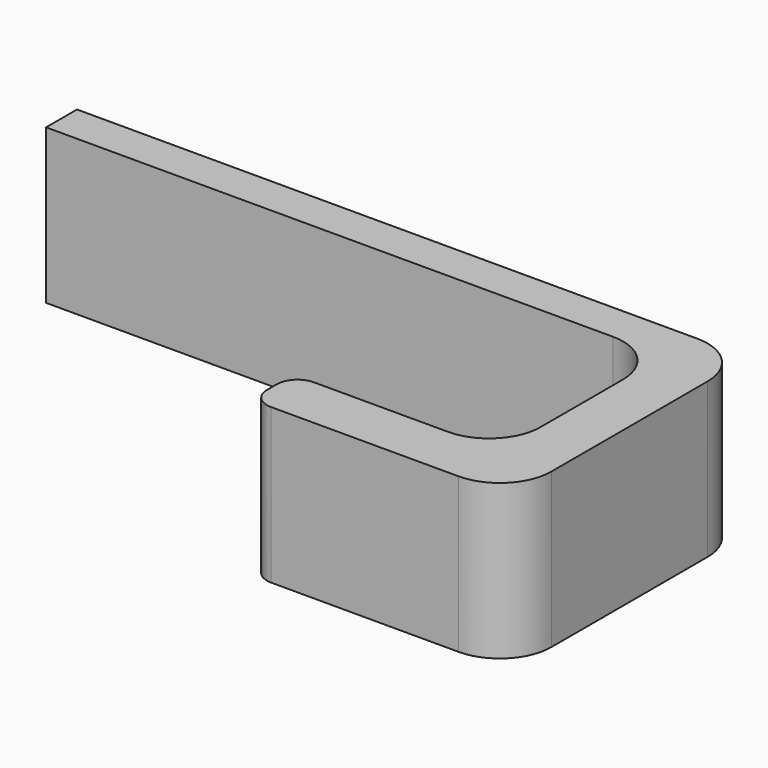
from build123d import *

# Parameters (mm, degrees)
F1_DEPTH = 19.05


with BuildPart() as f1:
    # F0 (on Top) → F1 (new body)
    with BuildSketch(Plane.XY):
        with BuildLine():
            Line((76.453999, 0), (0, 0))
            Line((0, 0), (0, -4.7625))
            Line((0, -4.7625), (69.85, -4.7625))
            ThreePointArc((69.85, -4.7625), (74.340128, -6.622372), (76.2, -11.1125))
            Line((76.2, -11.1125), (76.2, -23.8125))
            ThreePointArc((76.2, -23.8125), (74.340128, -28.302628), (69.85, -30.1625))
            Line((69.85, -30.1625), (53.34, -30.1625))
            ThreePointArc((53.34, -30.1625), (51.543949, -30.906449), (50.8, -32.7025))
            Line((50.8, -32.7025), (50.8, -34.226499))
            ThreePointArc((50.8, -34.226499), (51.543949, -36.022551), (53.34, -36.766499))
            Line((53.34, -36.766499), (76.453999, -36.766499))
            ThreePointArc((76.453999, -36.766499), (80.944127, -34.906627), (82.803999, -30.416499))
            Line((82.803999, -30.416499), (82.803999, -6.35))
            ThreePointArc((82.803999, -6.35), (80.944127, -1.859872), (76.453999, 0))
        make_face()
    extrude(amount=F1_DEPTH)


solid = f1.part
